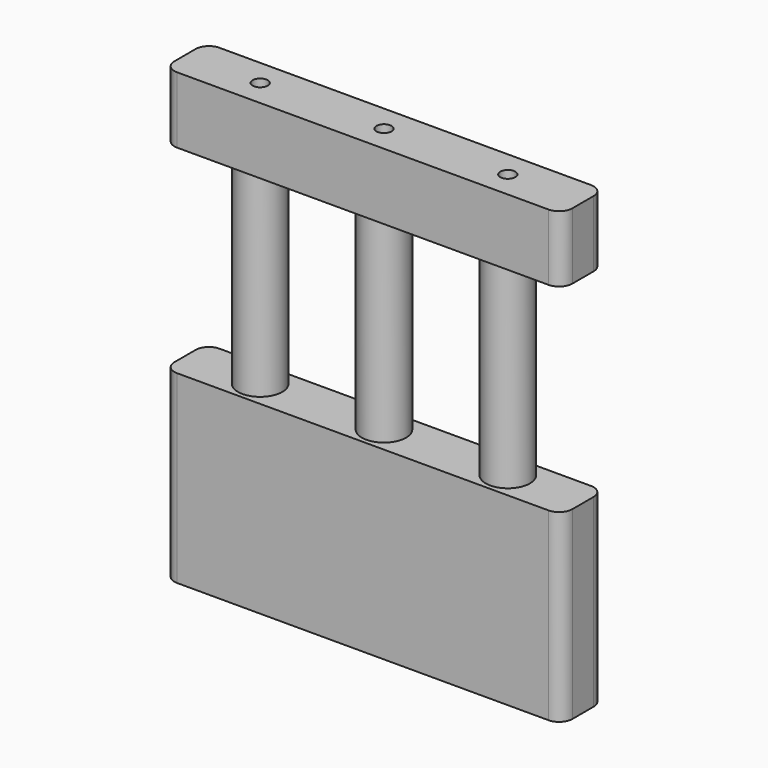
from build123d import *

# Parameters (mm, degrees)
F0_W     = 90
F0_H     = 41.77
F1_DEPTH = 6
F3_DEPTH = 44.9
F4_W     = 90
F4_H     = 12
F4_R     = 5
F5_DEPTH = 15
F6_R     = 3
F7_R     = 1.7
F8_DEPTH = 20


with BuildPart() as f1:
    # F0 (on Front) → F1 (new body, symmetric)
    with BuildSketch(Plane.XZ):
        Rectangle(F0_W, F0_H)
    extrude(amount=F1_DEPTH, both=True)

    # F2 (on face) → F3 (join)
    with BuildSketch(Plane.XY.offset(20.885)):
        with BuildLine():
            Line((-28, 0), (-23, 0))
            ThreePointArc((-23, 0), (-28, 5), (-33, 0))
            Line((-33, 0), (-28, 0))
        make_face()
        with BuildLine():
            ThreePointArc((-33, 0), (-28, -5), (-23, 0))
            Line((-23, 0), (-28, 0))
            Line((-28, 0), (-33, 0))
        make_face()
        with BuildLine():
            Line((-5, 0), (0, 0))
            Line((0, 0), (5, 0))
            ThreePointArc((5, 0), (0, 5), (-5, 0))
        make_face()
        with BuildLine():
            Line((5, 0), (0, 0))
            Line((0, 0), (-5, 0))
            ThreePointArc((-5, 0), (0, -5), (5, 0))
        make_face()
        with BuildLine():
            ThreePointArc((33, 0), (28, 5), (23, 0))
            ThreePointArc((23, 0), (28, -5), (33, 0))
        make_face()
    extrude(amount=F3_DEPTH)

    # F4 (on face) → F5 (join)
    with BuildSketch(Plane.XY.offset(65.785)):
        Rectangle(F4_W, F4_H)
        with Locations((-28, 0)):
            Circle(F4_R, mode=Mode.SUBTRACT)
        with Locations((-28, 0)):
            Circle(F4_R)
    extrude(amount=F5_DEPTH)

    # F6
    f6_edges = [f1.edges().sort_by_distance(p)[0] for p in [
        (45, -6, 0),
        (45, 6, 0),
        (-45, -6, 0),
        (-45, 6, 0),
        (-45, 6, 73.285),
        (-45, -6, 73.285),
        (45, -6, 73.285),
        (45, 6, 73.285),
    ]]
    fillet(f6_edges, radius=F6_R)

    # F7 (on face) → F8 (cut)
    with BuildSketch(Plane(origin=(0, 0, 65.785), x_dir=(1, 0, 0), z_dir=(0, 0, -1))):
        with Locations((-28, 0)):
            Circle(F7_R)
        Circle(F7_R)
        with Locations((28, 0)):
            Circle(F7_R)
    extrude(amount=-F8_DEPTH, mode=Mode.SUBTRACT)


solid = f1.part
